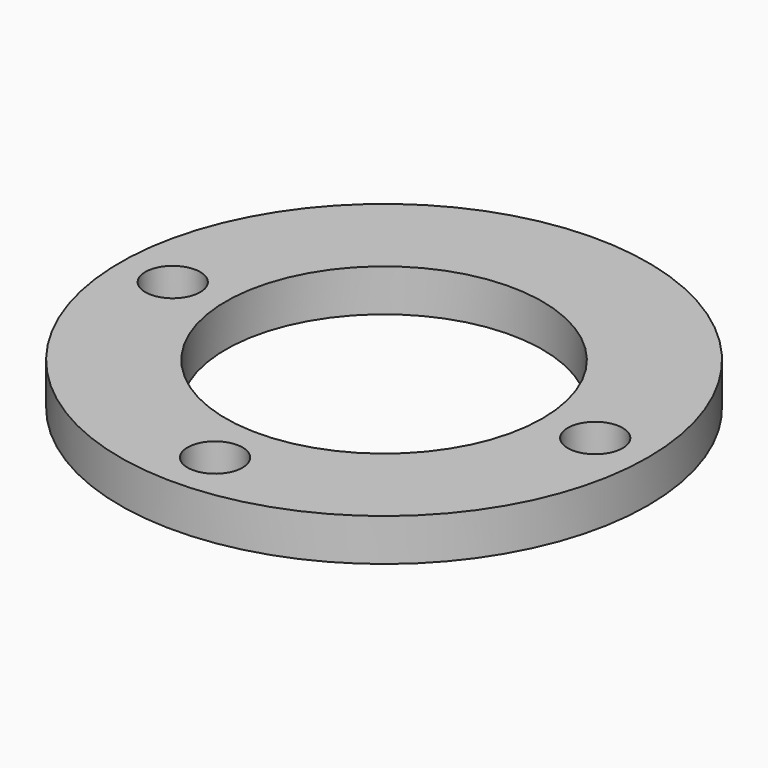
from build123d import *

# Parameters (mm, degrees)
SKETCH_R     = 50
SKETCH_R_2   = 30
PAD_DEPTH    = 8
SKETCH001_R  = 5.2
POCKET_DEPTH = 6


with BuildPart() as part:
    # Sketch → Pad (new body)
    with BuildSketch(Plane.XY):
        Circle(SKETCH_R)
        Circle(SKETCH_R_2, mode=Mode.SUBTRACT)
    extrude(amount=PAD_DEPTH)

    # Sketch001 (on Face4 of Pad) → Pocket (cut)
    with BuildSketch(Plane.XY.offset(8)):
        with Locations((-39.999977, -0.043166)):
            Circle(SKETCH001_R)
        with Locations((0, -40.020409)):
            Circle(SKETCH001_R)
        with Locations((39.999998, -0.014127)):
            Circle(SKETCH001_R)
    extrude(amount=-POCKET_DEPTH, mode=Mode.SUBTRACT)


solid = part.part
